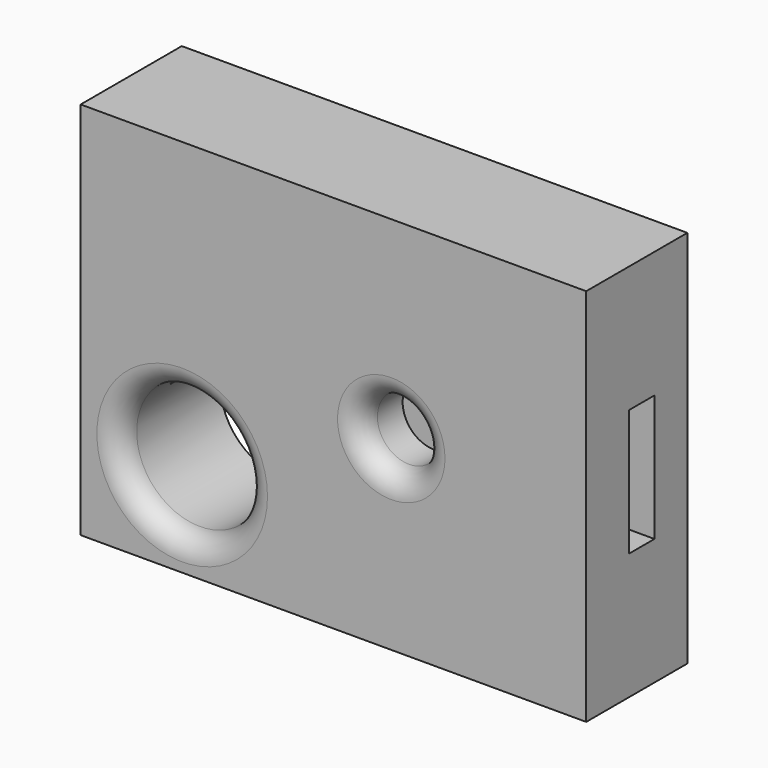
from build123d import *

# Parameters (mm, degrees)
F0_W     = 101.6
F0_H     = 76.2
F0_R     = 12.7
F0_R_2   = 6.35
F1_DEPTH = 25.4
F2_R     = 4.445
F3_W     = 6.35
F3_H     = 25.4
F4_DEPTH = 101.601


with BuildPart() as f1:
    # F0 (on Front) → F1 (new body)
    with BuildSketch(Plane.XZ):
        with Locations((4.996498, 19.05)):
            Rectangle(F0_W, F0_H)
        with Locations((-25.4, 0)):
            Circle(F0_R, mode=Mode.SUBTRACT)
        with Locations((16.619995, 18.330872)):
            Circle(F0_R_2, mode=Mode.SUBTRACT)
    extrude(amount=F1_DEPTH)

    # F2
    f2_edges = [f1.edges().sort_by_distance(p)[0] for p in [
        (-38.1, -25.4, 0),
        (10.269995, -25.4, 18.330872),
    ]]
    fillet(f2_edges, radius=F2_R)

    # F3 (on face) → F4 (cut, through all)
    with BuildSketch(Plane.YZ.offset(55.796498)):
        with Locations((-11.432072, 19.05)):
            Rectangle(F3_W, F3_H)
    extrude(amount=-F4_DEPTH, mode=Mode.SUBTRACT)


solid = f1.part
